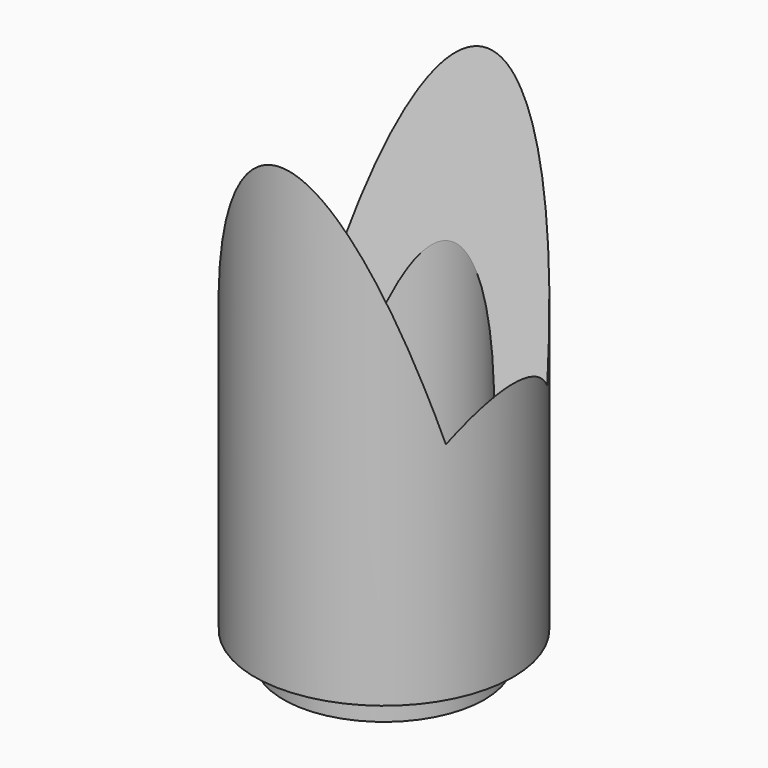
from build123d import *

# Parameters (mm, degrees)
F0_R     = 3.5
F0_R_2   = 3
F1_DEPTH = 17.016
F3_R     = 4.5
F3_R_2   = 3.5
F4_DEPTH = 16
F6_W     = 16
F6_H     = 9


with BuildPart() as f1:
    # F0 (on Top) → F1 (new body)
    with BuildSketch(Plane.XY):
        Circle(F0_R)
        Circle(F0_R_2, mode=Mode.SUBTRACT)
    extrude(amount=F1_DEPTH)

    # F3 (on offset) → F4 (join, through all)
    with BuildSketch(Plane.XY.offset(1.016)):
        Circle(F3_R)
        Circle(F3_R_2, mode=Mode.SUBTRACT)
    extrude(amount=F4_DEPTH)

    # F6 (on offset) → F7 section 0
    with BuildSketch(Plane.XY.offset(17.016), mode=Mode.PRIVATE) as f7_s0:
        Rectangle(F6_W, F6_H)
    loft([f7_s0.sketch, Vertex(0, 0, 1.016)], mode=Mode.SUBTRACT)


solid = f1.part
